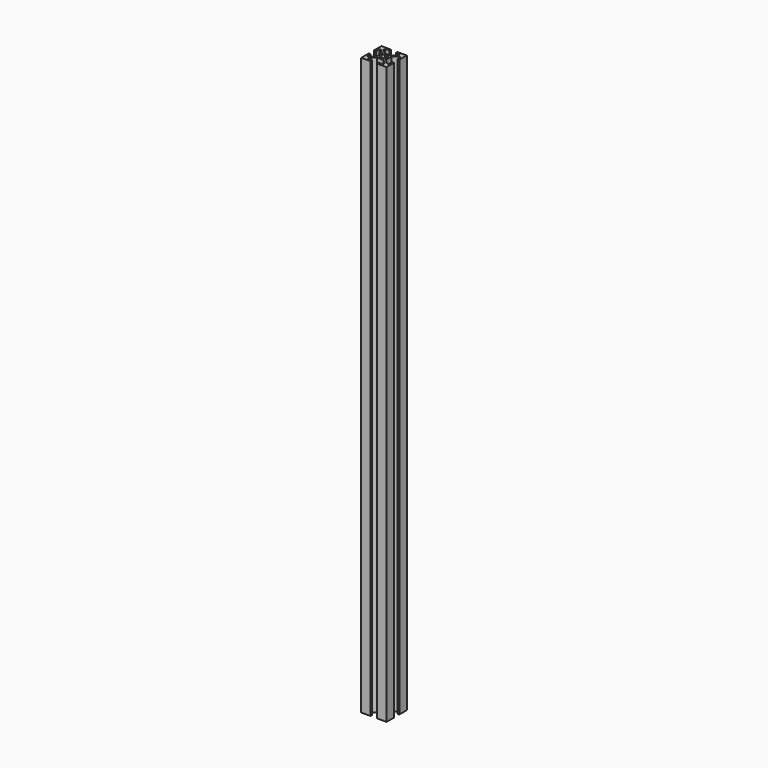
from build123d import *

# Parameters (mm, degrees)
F1_DEPTH = 456


with BuildPart() as f1:
    # F0 (on Top) → F1 (new body)
    with BuildSketch(Plane.XY):
        Polygon((10, 2.63), (10, 10), (2.63, 10), (2.63, 8.5), (5.995, 8.5), (5.995, 7.05566), (2.59934, 3.66), (-2.59934, 3.66), (-5.995, 7.05566), (-5.995, 8.5), (-2.63, 8.5), (-2.63, 10), (-10, 10), (-10, 2.63), (-8.5, 2.63), (-8.5, 5.995), (-7.05566, 5.995), (-3.66, 2.59934), (-3.66, -2.59934), (-7.05566, -5.995), (-8.5, -5.995), (-8.5, -2.63), (-10, -2.63), (-10, -10), (-2.63, -10), (-2.63, -8.5), (-5.995, -8.5), (-5.995, -7.05566), (-2.59934, -3.66), (2.59934, -3.66), (5.995, -7.05566), (5.995, -8.5), (2.63, -8.5), (2.63, -10), (10, -10), (10, -2.63), (8.5, -2.63), (8.5, -5.995), (7.05566, -5.995), (3.66, -2.59934), (3.66, 2.59934), (7.05566, 5.995), (8.5, 5.995), (8.5, 2.63), align=None)
        with BuildLine():
            ThreePointArc((1.886053, 0.912048), (2.042095, 0.467838), (2.095, 0))
            ThreePointArc((2.095, 0), (2.042095, -0.467838), (1.886053, -0.912048))
            ThreePointArc((1.886053, -0.912048), (2.102098, -1.161042), (2.179889, -1.481389))
            ThreePointArc((2.179889, -1.481389), (1.693777, -2.146816), (0.912048, -1.886053))
            ThreePointArc((0.912048, -1.886053), (0, -2.095), (-0.912048, -1.886053))
            ThreePointArc((-0.912048, -1.886053), (-1.975303, -1.975303), (-1.886053, -0.912048))
            ThreePointArc((-1.886053, -0.912048), (-2.095, 0), (-1.886053, 0.912048))
            ThreePointArc((-1.886053, 0.912048), (-1.975303, 1.975303), (-0.912048, 1.886053))
            ThreePointArc((-0.912048, 1.886053), (0, 2.095), (0.912048, 1.886053))
            ThreePointArc((0.912048, 1.886053), (1.693777, 2.146816), (2.179889, 1.481389))
            ThreePointArc((2.179889, 1.481389), (2.102098, 1.161042), (1.886053, 0.912048))
        make_face(mode=Mode.SUBTRACT)
    extrude(amount=F1_DEPTH)


solid = f1.part
